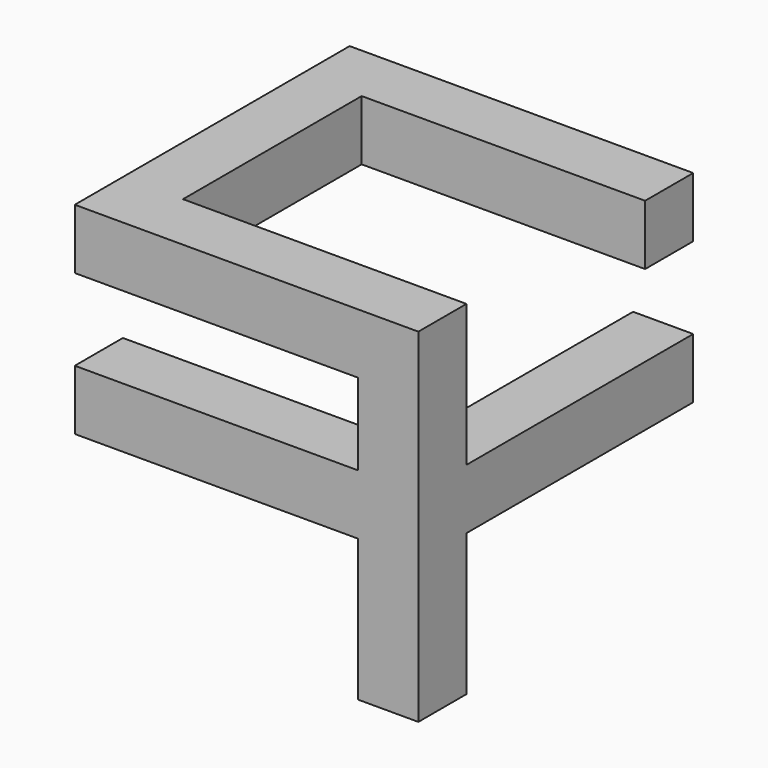
from build123d import *

# Parameters (mm, degrees)
F1_DEPTH = 177.8
F2_W     = 177.8
F2_H     = 241.3
F2_H_2   = 177.8
F2_H_3   = 419.1
F2_W_2   = 838.2
F3_DEPTH = 177.8
F4_W     = 838.2
F4_H     = 177.8
F5_DEPTH = 177.8


with BuildPart() as f1:
    # F0 (on Top) → F1 (new body)
    with BuildSketch(Plane.XY):
        Polygon((508, 330.2), (508, 508), (-508, 508), (-508, -508), (508, -508), (508, -330.2), (-330.2, -330.2), (-330.2, 330.2), align=None)
    extrude(amount=F1_DEPTH)

    # F2 (on face) → F3 (join)
    with BuildSketch(Plane.XZ.offset(508)):
        with Locations((419.1, -120.65)):
            Rectangle(F2_W, F2_H)
        with Locations((419.1, -330.2)):
            Rectangle(F2_W, F2_H_2)
        with Locations((419.1, -628.65)):
            Rectangle(F2_W, F2_H_3)
        with Locations((-88.9, -330.2)):
            Rectangle(F2_W_2, F2_H_2)
    extrude(amount=-F3_DEPTH)

    # F4 (on face) → F5 (join)
    with BuildSketch(Plane.YZ.offset(508)):
        with Locations((88.9, -330.2)):
            Rectangle(F4_W, F4_H)
    extrude(amount=-F5_DEPTH)


solid = f1.part
